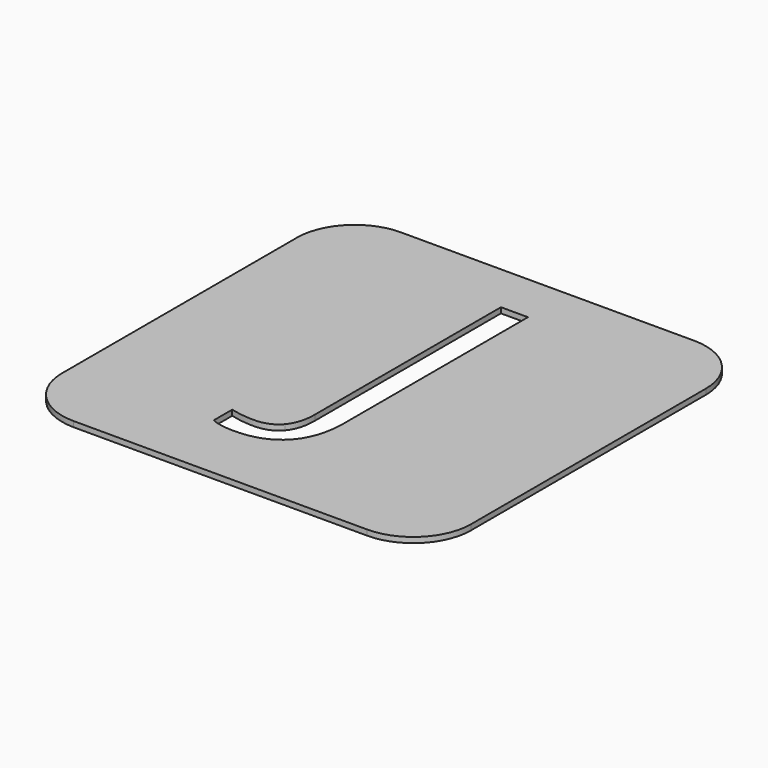
from build123d import *

# Parameters (mm, degrees)
F2_DEPTH = 0.6


with BuildPart() as f2:
    # F0 (on Top) → F2 (new body)
    with BuildSketch(Plane.XY):
        with BuildLine():
            ThreePointArc((22.5, 16.15), (20.6401280605, 20.6401280605), (16.15, 22.5))
            Line((16.15, 22.5), (-16.15, 22.5))
            ThreePointArc((-16.15, 22.5), (-20.6401280605, 20.6401280605), (-22.5, 16.15))
            Line((-22.5, 16.15), (-22.5, -16.15))
            ThreePointArc((-22.5, -16.15), (-20.6401280605, -20.6401280605), (-16.15, -22.5))
            Line((-16.15, -22.5), (16.15, -22.5))
            ThreePointArc((16.15, -22.5), (20.6401280605, -20.6401280605), (22.5, -16.15))
            Line((22.5, -16.15), (22.5, 16.15))
        make_face()
        with BuildLine():
            add(Edge.make_bspline(
                [(0.5719390065, -13.4999525223), (-1.1077445488, -15.3280081249), (-4.2599506875, -15.3280081249)],
                knots=[0, 0, 0, 1, 1, 1], degree=2))
            add(Edge.make_bspline(
                [(-4.2599506875, -15.3280081249), (-5.9004416265, -15.3280081249), (-6.8466633626, -14.8576967295)],
                knots=[0, 0, 0, 1, 1, 1], degree=2))
            Line((-6.8466633626, -14.8576967295), (-6.8466633626, -12.321374561))
            add(Edge.make_bspline(
                [(-6.8466633626, -12.321374561), (-5.6036975317, -12.6685091624), (-4.2599506875, -12.6685091624)],
                knots=[0, 0, 0, 1, 1, 1], degree=2))
            add(Edge.make_bspline(
                [(-4.2599506875, -12.6685091624), (-2.5242776804, -12.6685091624), (-1.6228475057, -11.6187069404)],
                knots=[0, 0, 0, 1, 1, 1], degree=2))
            add(Edge.make_bspline(
                [(-1.6228475057, -11.6187069404), (-0.7214173311, -10.5689047183), (-0.7214173311, -8.5924770683)],
                knots=[0, 0, 0, 1, 1, 1], degree=2))
            Line((-0.7214173311, -8.5924770683), (-0.7214173311, 16.9891034784))
            Line((-0.7214173311, 16.9891034784), (2.2516225617, 16.9891034784))
            Line((2.2516225617, 16.9891034784), (2.2516225617, -8.3461234802))
            add(Edge.make_bspline(
                [(2.2516225617, -8.3461234802), (2.2516225617, -11.6718969196), (0.5719390065, -13.4999525223)],
                knots=[0, 0, 0, 1, 1, 1], degree=2))
        make_face(mode=Mode.SUBTRACT)
    extrude(amount=F2_DEPTH)


solid = f2.part
